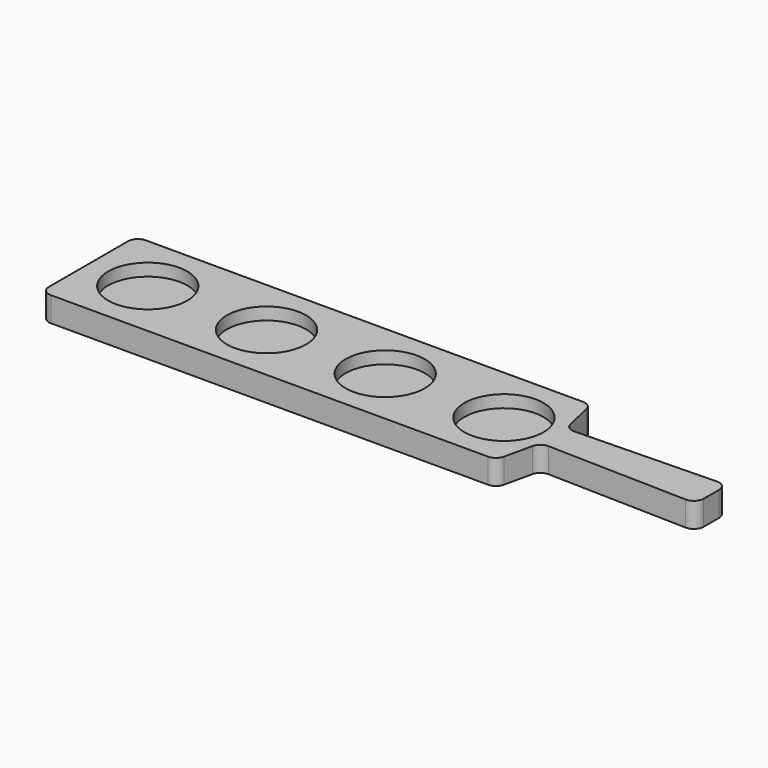
from build123d import *

# Parameters (mm, degrees)
F1_DEPTH = 15.875
F2_DEPTH = 7.9375


with BuildPart() as f1:
    # F0 (on Top) → F1 (new body)
    with BuildSketch(Plane.XY):
        with BuildLine():
            Line((-133.148059, 31.75), (-133.148059, 0))
            Line((-133.148059, 0), (-133.148059, -31.75))
            ThreePointArc((-133.148059, -31.75), (-131.288188, -36.240128), (-126.798059, -38.1))
            Line((-126.798059, -38.1), (153.855311, -38.1))
            ThreePointArc((153.855311, -38.1), (157.830027, -36.702184), (160.054847, -33.124135))
            Line((160.054847, -33.124135), (164.013447, -15.264552))
            ThreePointArc((164.013447, -15.264552), (166.300465, -11.637217), (170.371684, -10.29067))
            Line((170.371684, -10.29067), (260.236177, -12.537282))
            ThreePointArc((260.236177, -12.537282), (264.828541, -10.735157), (266.744877, -6.189266))
            Line((266.744877, -6.189266), (266.744877, 0))
            Line((266.744877, 0), (266.744877, 6.189266))
            ThreePointArc((266.744877, 6.189266), (264.828541, 10.735157), (260.236177, 12.537282))
            Line((260.236177, 12.537282), (170.371684, 10.29067))
            ThreePointArc((170.371684, 10.29067), (166.300465, 11.637217), (164.013447, 15.264552))
            Line((164.013447, 15.264552), (160.054847, 33.124135))
            ThreePointArc((160.054847, 33.124135), (157.830027, 36.702184), (153.855311, 38.1))
            Line((153.855311, 38.1), (-126.798059, 38.1))
            ThreePointArc((-126.798059, 38.1), (-131.288188, 36.240128), (-133.148059, 31.75))
        make_face()
        with BuildLine():
            ThreePointArc((-69.648059, 0), (-95.048059, -25.4), (-120.448059, 0))
            ThreePointArc((-120.448059, 0), (-95.048059, 25.4), (-69.648059, 0))
        make_face(mode=Mode.SUBTRACT)
        with BuildLine():
            ThreePointArc((6.551941, 0), (-18.848059, -25.4), (-44.248059, 0))
            ThreePointArc((-44.248059, 0), (-18.848059, 25.4), (6.551941, 0))
        make_face(mode=Mode.SUBTRACT)
        with BuildLine():
            ThreePointArc((82.751941, 0), (57.351941, -25.4), (31.951941, 0))
            ThreePointArc((31.951941, 0), (57.351941, 25.4), (82.751941, 0))
        make_face(mode=Mode.SUBTRACT)
        with BuildLine():
            ThreePointArc((158.951941, 0), (133.551941, -25.4), (108.151941, 0))
            ThreePointArc((108.151941, 0), (133.551941, 25.4), (158.951941, 0))
        make_face(mode=Mode.SUBTRACT)
    extrude(amount=F1_DEPTH)

    # F0 (on Top) → F2 (join)
    with BuildSketch(Plane.XY):
        with BuildLine():
            ThreePointArc((-69.648059, 0), (-95.048059, 25.4), (-120.448059, 0))
            ThreePointArc((-120.448059, 0), (-95.048059, -25.4), (-69.648059, 0))
        make_face()
        with BuildLine():
            ThreePointArc((6.551941, 0), (-18.848059, 25.4), (-44.248059, 0))
            ThreePointArc((-44.248059, 0), (-18.848059, -25.4), (6.551941, 0))
        make_face()
        with BuildLine():
            ThreePointArc((82.751941, 0), (57.351941, 25.4), (31.951941, 0))
            ThreePointArc((31.951941, 0), (57.351941, -25.4), (82.751941, 0))
        make_face()
        with BuildLine():
            ThreePointArc((158.951941, 0), (133.551941, 25.4), (108.151941, 0))
            ThreePointArc((108.151941, 0), (133.551941, -25.4), (158.951941, 0))
        make_face()
    extrude(amount=F2_DEPTH)


solid = f1.part
